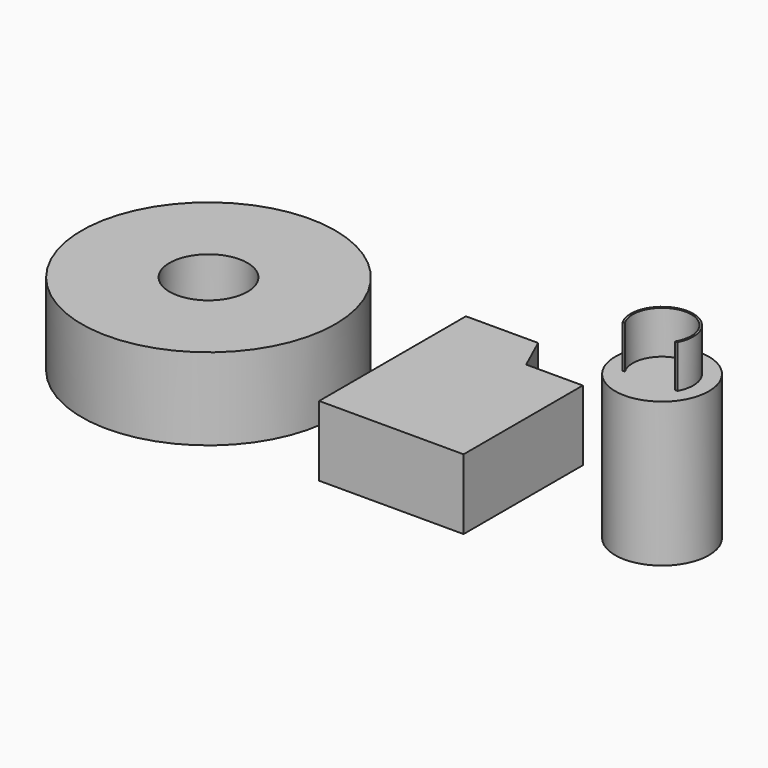
from build123d import *

# Parameters (mm, degrees)
F0_R     = 32.5
F0_R_2   = 10
F1_DEPTH = 21
F2_DEPTH = 18
F0_R_3   = 12
F3_DEPTH = 37
F4_DEPTH = 48


with BuildPart() as f1:
    # F0 (on Top) → F1 (new body)
    with BuildSketch(Plane.XY):
        with Locations((-44.243086, 0)):
            Circle(F0_R)
        with Locations((-44.243086, 0)):
            Circle(F0_R_2, mode=Mode.SUBTRACT)
    extrude(amount=F1_DEPTH)


with BuildPart() as f2:
    # F0 (on Top) → F2 (new body)
    with BuildSketch(Plane.XY):
        Polygon((2.915582, -23.5), (39.915582, -23.5), (39.915582, 14.68972), (25.401583, 14.68972), (21.415582, 23.5), (2.915582, 23.5), align=None)
    extrude(amount=F2_DEPTH)


with BuildPart() as f3:
    # F0 (on Top) → F3 (new body)
    with BuildSketch(Plane.XY):
        with Locations((71.97392, 0)):
            Circle(F0_R_3)
        with BuildLine():
            ThreePointArc((64.956249, -3.840872), (71.97392, 8), (78.991591, -3.840872))
            Line((78.991591, -3.840872), (78.415791, -3.840872))
            ThreePointArc((78.415791, -3.840872), (71.97392, 7.5), (65.532049, -3.840872))
            Line((65.532049, -3.840872), (64.956249, -3.840872))
        make_face(mode=Mode.SUBTRACT)
    extrude(amount=F3_DEPTH)

    # F0 (on Top) → F4 (join)
    with BuildSketch(Plane.XY):
        with BuildLine():
            Line((78.415791, -3.840872), (78.991591, -3.840872))
            ThreePointArc((78.991591, -3.840872), (71.97392, 8), (64.956249, -3.840872))
            Line((64.956249, -3.840872), (65.532049, -3.840872))
            ThreePointArc((65.532049, -3.840872), (71.97392, 7.5), (78.415791, -3.840872))
        make_face()
    extrude(amount=F4_DEPTH)


solid = Compound([f1.part, f2.part, f3.part])
